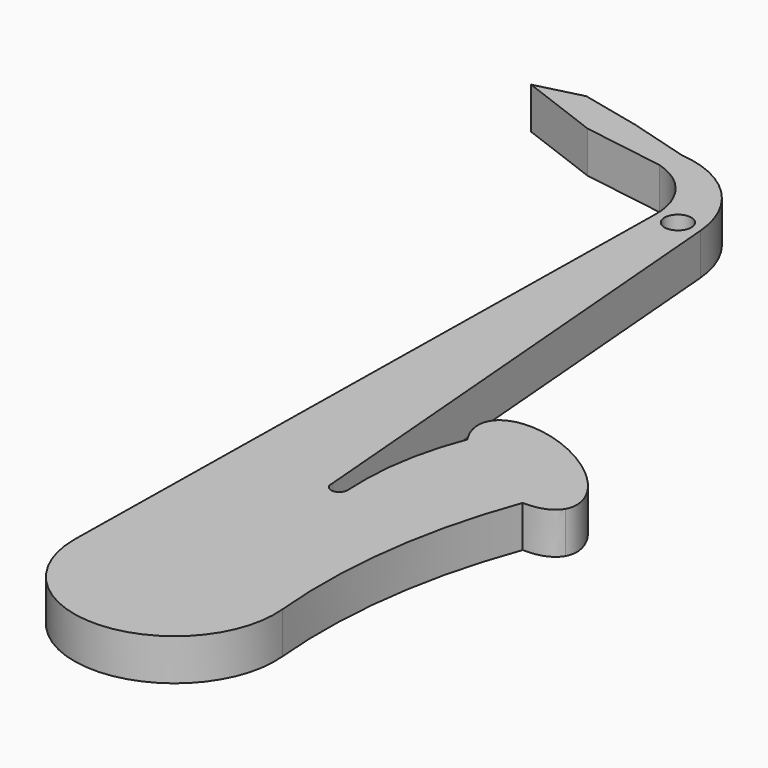
from build123d import *

# Parameters (mm, degrees)
F1_DEPTH = 6.35


with BuildPart() as f1:
    # F0 (on Top) → F1 (new body)
    with BuildSketch(Plane.XY):
        with BuildLine():
            add(Edge.make_bspline(
                [(31.880903, -17.689873), (35.643682, -17.812939), (36.833162, -15.719454)],
                knots=[5.527162, 5.527162, 5.527162, 6.283185, 6.283185, 6.283185], degree=2, weights=[1, 0.9294, 1]))
            add(Edge.make_bspline(
                [(36.833162, -15.719454), (41.280451, -7.892229), (24.976302, -2.520228), (8.672153, 2.851774), (16.481127, -9.013728)],
                knots=[0, 0, 0, 1.956125, 1.956125, 3.912249, 3.912249, 3.912249], degree=2, weights=[1, 0.558631, 1, 0.558631, 1]))
            add(Edge.make_bspline(
                [(16.481127, -9.013728), (21.977953, -17.365987), (31.880903, -17.689873)],
                knots=[3.912249, 3.912249, 3.912249, 5.527162, 5.527162, 5.527162], degree=2, weights=[1, 0.691339, 1]))
        make_face()
        with BuildLine():
            add(Edge.make_bspline(
                [(16.481127, -9.013728), (21.977953, -17.365987), (31.880903, -17.689873)],
                knots=[3.912249, 3.912249, 3.912249, 5.527162, 5.527162, 5.527162], degree=2, weights=[1, 0.691339, 1]))
            ThreePointArc((16.481127, -9.013728), (13.945082, -18.376587), (13.496595, -28.066454))
            ThreePointArc((13.496595, -28.066454), (13.169052, -29.055795), (12.208221, -29.459384))
            Line((12.208221, -29.459384), (11.362398, -58.569814))
            Line((11.362398, -58.569814), (0, 0))
            Line((0, 0), (-3.125535, 0))
            Line((-3.125535, 0), (-4.012657, -58.543254))
            ThreePointArc((-4.012657, -58.543254), (12.071262, -73.928543), (26.669642, -57.127148))
            ThreePointArc((26.669642, -57.127148), (27.058052, -37.115526), (31.880903, -17.689873))
        make_face()
        with BuildLine():
            Line((11.362398, -58.569814), (12.208221, -29.459384))
            ThreePointArc((12.208221, -29.459384), (11.296082, -29.028591), (10.992978, -28.066454))
            Line((10.992978, -28.066454), (4.483265, 50.507788))
            Line((4.483265, 50.507788), (3.115144, 50.507788))
            ThreePointArc((3.115144, 50.507788), (1.061544, 48.454188), (-0.992056, 50.507788))
            Line((-0.992056, 50.507788), (-2.360177, 50.507788))
            Line((-2.360177, 50.507788), (-3.125535, 0))
            Line((-3.125535, 0), (0, 0))
            Line((0, 0), (11.362398, -58.569814))
        make_face()
        with BuildLine():
            Line((3.115144, 50.507788), (4.483265, 50.507788))
            ThreePointArc((4.483265, 50.507788), (0.106576, 59.964251), (-9.340049, 64.362138))
            Line((-9.340049, 64.362138), (-9.9143, 60.737183))
            ThreePointArc((-9.9143, 60.737183), (-4.410336, 56.897754), (-2.360177, 50.507788))
            Line((-2.360177, 50.507788), (-0.992056, 50.507788))
            ThreePointArc((-0.992056, 50.507788), (1.061544, 52.561388), (3.115144, 50.507788))
        make_face()
        Polygon((-9.9143, 60.737183), (-9.340049, 64.362138), (-18.758047, 67.076735), (-27.879952, 69.181785), (-34.902189, 67.39933), (-22.54193, 62.737604), align=None)
    extrude(amount=F1_DEPTH)


solid = f1.part
